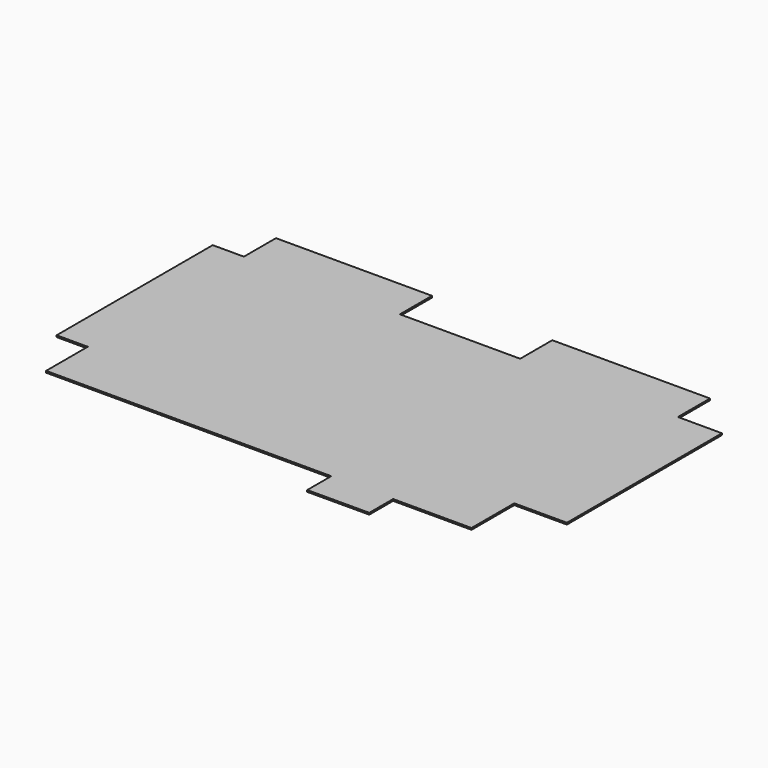
from build123d import *

# Parameters (mm, degrees)
F1_DEPTH = 25


with BuildPart() as f1:
    # F0 (on Top) → F1 (new body)
    with BuildSketch(Plane.XY):
        Polygon((0, -600), (0, 0), (-2335, 0), (-2335, -600), (-2801.366568, -600), (-2801.366568, -3520), (-2335, -3520), (-2335, -4300), (1932, -4300), (1932, -4748.574734), (2858.47044, -4746.123791), (2858.47044, -4300), (3629.903078, -4300), (4031.094551, -4300), (4031.094551, -3500), (4818.633432, -3500), (4818.633432, -600), (4160, -600), (4160, 0), (1800, 0), (1800, -600), align=None)
    extrude(amount=F1_DEPTH)


solid = f1.part
